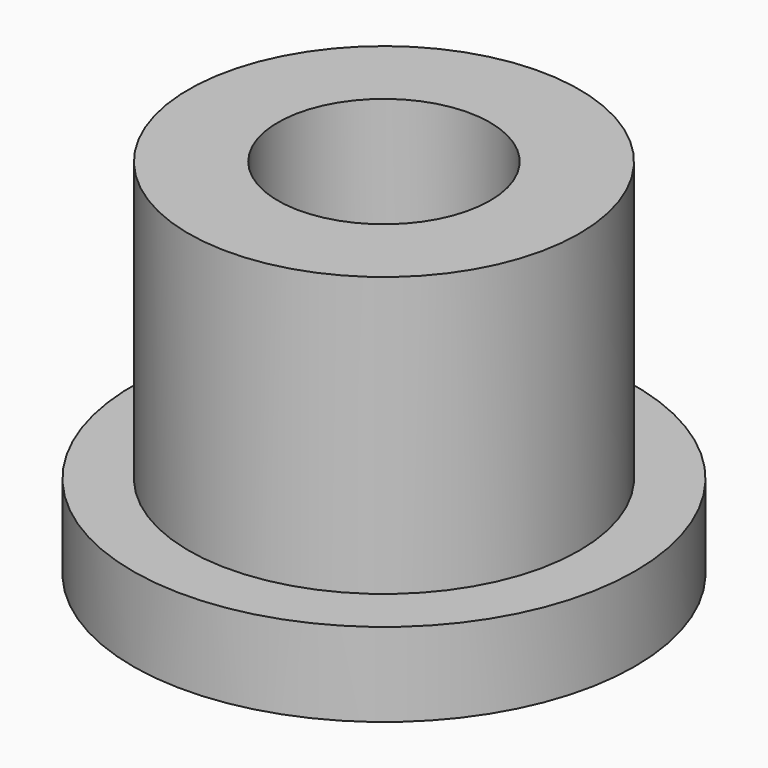
from build123d import *

# Parameters (mm, degrees)
F0_R     = 4.5
F1_DEPTH = 1.5
F2_R     = 3.5
F3_DEPTH = 5
F4_R     = 1.9
F5_DEPTH = 25


with BuildPart() as f1:
    # F0 (on Top) → F1 (new body)
    with BuildSketch(Plane.XY):
        Circle(F0_R)
    extrude(amount=F1_DEPTH)

    # F2 (on face) → F3 (join)
    with BuildSketch(Plane.XY.offset(1.5)):
        Circle(F2_R)
    extrude(amount=F3_DEPTH)

    # F4 (on Top) → F5 (cut)
    with BuildSketch(Plane.XY):
        Circle(F4_R)
    extrude(amount=F5_DEPTH, mode=Mode.SUBTRACT)


solid = f1.part
